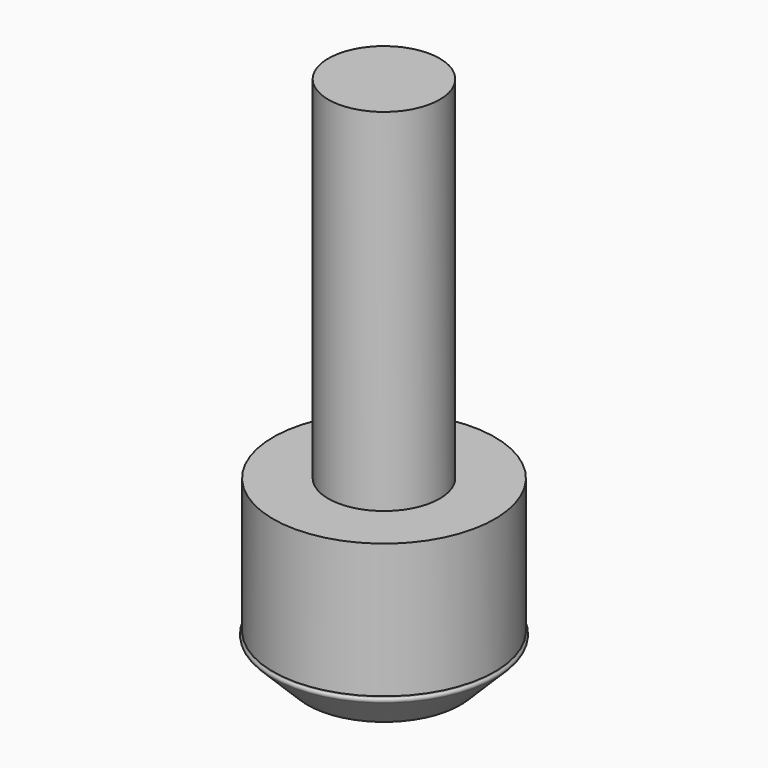
from build123d import *

# Parameters (mm, degrees)
F2_R     = 12.7
F3_DEPTH = 80.0862


with BuildPart() as f1:
    # F0 (on Right) → F1 (revolve)
    with BuildSketch(Plane.YZ):
        with BuildLine():
            Line((0, 40.005), (-25.273, 40.005))
            Line((-25.273, 40.005), (-25.273, 9.361256))
            Line((-25.273, 9.361256), (-25.430815, 9.203441))
            ThreePointArc((-25.430815, 9.203441), (-25.654, 8.664625), (-25.430815, 8.12581))
            Line((-25.430815, 8.12581), (-17.52819, 0.223185))
            ThreePointArc((-17.52819, 0.223185), (-16.989375, 0), (-16.450559, 0.223185))
            Line((-16.450559, 0.223185), (-8.009118, 8.664625))
            Line((-8.009118, 8.664625), (0, 8.664625))
            Line((0, 8.664625), (0, 40.005))
        make_face()
    revolve(axis=Axis((0, 0, 24.334813), (0, 0, -1)))

    # F2 (on face) → F3 (join)
    with BuildSketch(Plane.XY.offset(40.005)):
        Circle(F2_R)
    extrude(amount=F3_DEPTH)


solid = f1.part
